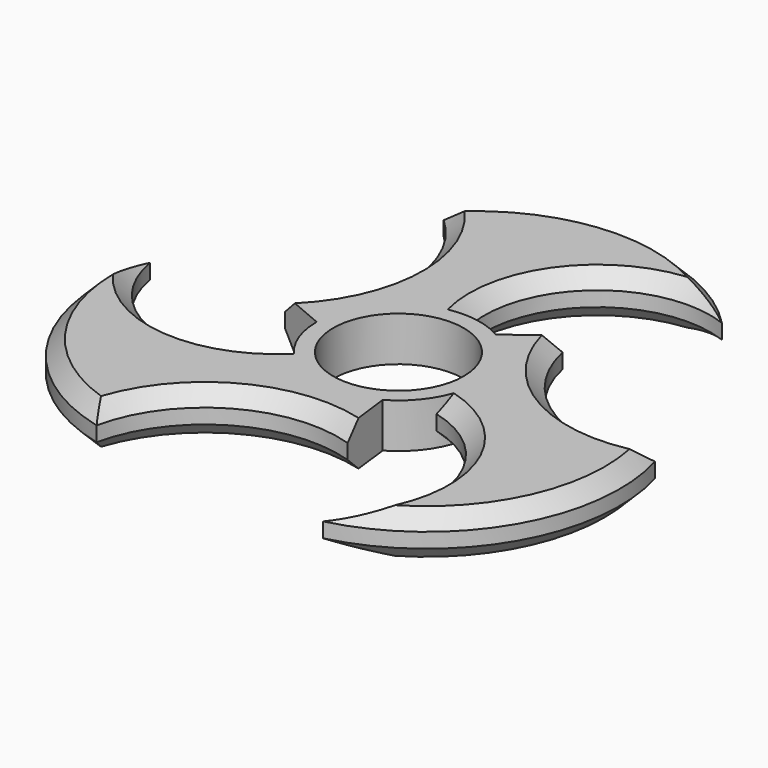
from build123d import *

# Parameters (mm, degrees)
F0_R     = 11.15
F1_DEPTH = 7.62
F2_SIZE  = 2.54


with BuildPart() as f1:
    # F0 (on Top) → F1 (new body)
    with BuildSketch(Plane.XY):
        with BuildLine():
            ThreePointArc((-13.97, 0), (-9.878282, 9.878282), (0, 13.97))
            ThreePointArc((0, 13.97), (5.49233, 33.471023), (25.375936, 37.356612))
            ThreePointArc((25.375936, 37.356612), (1.613093, 47.449604), (-22.149751, 37.356612))
            ThreePointArc((-22.149751, 37.356612), (-14.642468, 20.419267), (-22.149751, 3.481921))
            Line((-22.149751, 3.481921), (-13.97, 0))
        make_face()
        with BuildLine():
            ThreePointArc((6.985, 12.098375), (12.098375, 6.985), (13.97, 0))
            ThreePointArc((13.97, 0), (13.493984, -3.615702), (12.098375, -6.985))
            ThreePointArc((12.098375, -6.985), (26.240591, -21.492009), (19.663807, -40.654511))
            ThreePointArc((19.663807, -40.654511), (40.286016, -25.121782), (43.42665, 0.503941))
            ThreePointArc((43.42665, 0.503941), (25.004838, 2.471116), (14.090308, 17.441286))
            Line((14.090308, 17.441286), (6.985, 12.098375))
        make_face()
        with BuildLine():
            ThreePointArc((12.098375, -6.985), (13.493984, -3.615702), (13.97, 0))
            ThreePointArc((13.97, 0), (12.098375, 6.985), (6.985, 12.098375))
            ThreePointArc((6.985, 12.098375), (3.615702, 13.493984), (0, 13.97))
            ThreePointArc((0, 13.97), (-9.878282, 9.878282), (-13.97, 0))
            ThreePointArc((-13.97, 0), (-13.493984, -3.615702), (-12.098375, -6.985))
            ThreePointArc((-12.098375, -6.985), (-3.615702, -13.493984), (6.985, -12.098375))
            ThreePointArc((6.985, -12.098375), (9.878282, -9.878282), (12.098375, -6.985))
        make_face()
        Circle(F0_R, mode=Mode.SUBTRACT)
        with BuildLine():
            Line((8.059443, -20.923208), (6.985, -12.098375))
            ThreePointArc((6.985, -12.098375), (-3.615702, -13.493984), (-12.098375, -6.985))
            ThreePointArc((-12.098375, -6.985), (-31.732921, -11.979014), (-45.039743, 3.2979))
            ThreePointArc((-45.039743, 3.2979), (-41.899109, -22.327823), (-21.276899, -37.860553))
            ThreePointArc((-21.276899, -37.860553), (-10.362369, -22.890383), (8.059443, -20.923208))
        make_face()
    extrude(amount=F1_DEPTH)

    # F2
    f2_edges = [f1.edges().sort_by_distance(p)[0] for p in [
        (1.613093, 47.449604, 0),
        (40.286016, -25.121782, 0),
        (-41.899109, -22.327823, 0),
        (-41.899109, -22.327823, 7.62),
        (1.613093, 47.449604, 7.62),
        (40.286016, -25.121782, 7.62),
        (-14.642468, 20.419267, 7.62),
        (5.49233, 33.471023, 7.62),
        (26.240591, -21.492009, 7.62),
        (25.004838, 2.471116, 7.62),
        (-10.362369, -22.890383, 7.62),
        (-31.732921, -11.979014, 7.62),
        (-31.732921, -11.979014, 0),
        (-14.642468, 20.419267, 0),
        (25.004838, 2.471116, 0),
        (26.240591, -21.492009, 0),
        (-10.362369, -22.890383, 0),
        (5.49233, 33.471023, 0),
    ]]
    chamfer(f2_edges, length=F2_SIZE)


solid = f1.part
